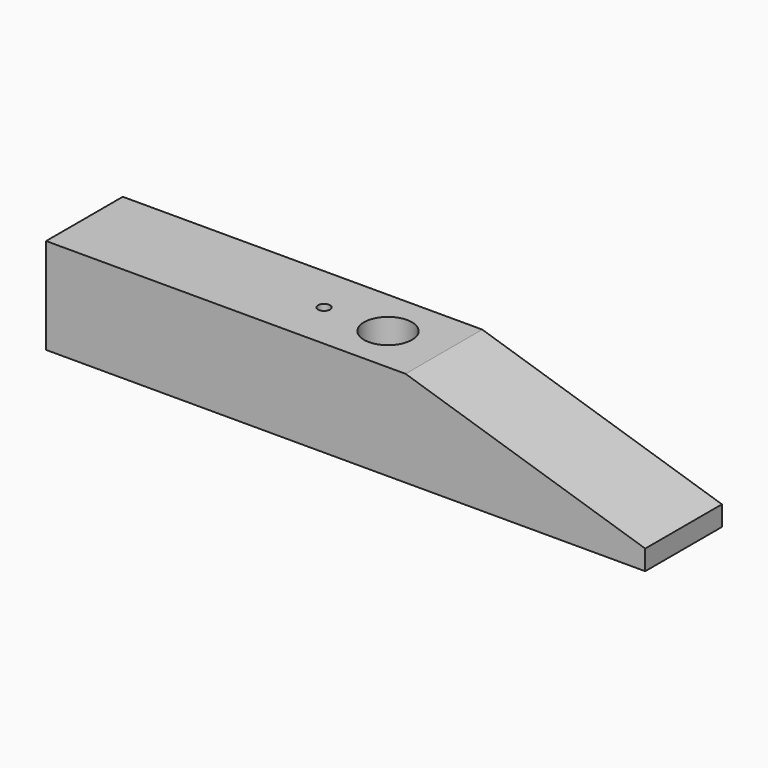
from build123d import *

# Parameters (mm, degrees)
F1_DEPTH = 12
F2_R     = 3
F3_DEPTH = 25
F4_R     = 0.75
F5_DEPTH = 6
F6_R     = 2.5
F7_DEPTH = 4


with BuildPart() as f1:
    # F0 (on Front) → F1 (new body)
    with BuildSketch(Plane.XZ):
        Polygon((33.501758, 16.705646), (-11.498242, 16.705646), (-11.498242, 4.705646), (63.501758, 4.705646), (63.501758, 7.205646), align=None)
    extrude(amount=F1_DEPTH)

    # F2 (on face) → F3 (cut)
    with BuildSketch(Plane.XY.offset(16.705646)):
        with Locations((26.501758, -6)):
            Circle(F2_R)
    extrude(amount=-F3_DEPTH, mode=Mode.SUBTRACT)

    # F4 (on face) → F5 (cut)
    with BuildSketch(Plane.XY.offset(16.705646)):
        with Locations((18.501758, -6)):
            Circle(F4_R)
    extrude(amount=-F5_DEPTH, mode=Mode.SUBTRACT)

    # F6 (on face) → F7 (cut)
    with BuildSketch(Plane(origin=(0, 0, 4.705646), x_dir=(1, 0, 0), z_dir=(0, 0, -1))):
        with Locations((-3.498242, 6)):
            Circle(F6_R)
    extrude(amount=-F7_DEPTH, mode=Mode.SUBTRACT)


solid = f1.part
